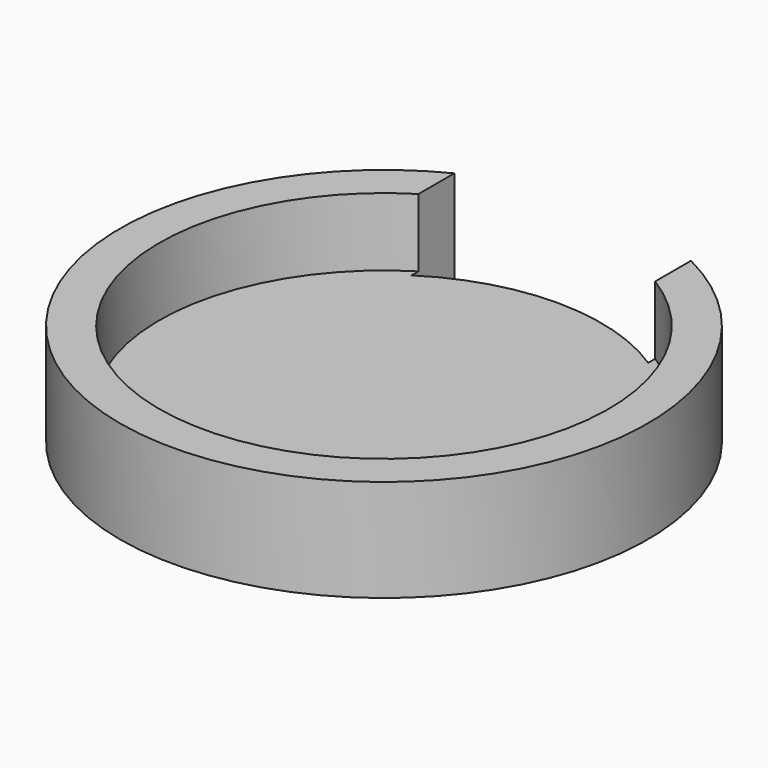
from build123d import *

# Parameters (mm, degrees)
F0_R     = 15.5
F1_DEPTH = 6
F2_R     = 13.2
F3_DEPTH = 4
F5_DEPTH = 25


with BuildPart() as f1:
    # F0 (on Top) → F1 (new body)
    with BuildSketch(Plane.XY):
        Circle(F0_R)
    extrude(amount=F1_DEPTH)

    # F2 (on face) → F3 (cut)
    with BuildSketch(Plane.XY.offset(6)):
        Circle(F2_R)
    extrude(amount=-F3_DEPTH, mode=Mode.SUBTRACT)

    # F4 (on face) → F5 (cut)
    with BuildSketch(Plane.XY.offset(6)):
        with BuildLine():
            Line((6.95, 21.574851), (-6.95, 21.574851))
            Line((-6.95, 21.574851), (-6.95, 10.710004))
            ThreePointArc((-6.95, 10.710004), (0, 12.767407), (6.95, 10.710004))
            Line((6.95, 10.710004), (6.95, 21.574851))
        make_face()
    extrude(amount=-F5_DEPTH, mode=Mode.SUBTRACT)


solid = f1.part
